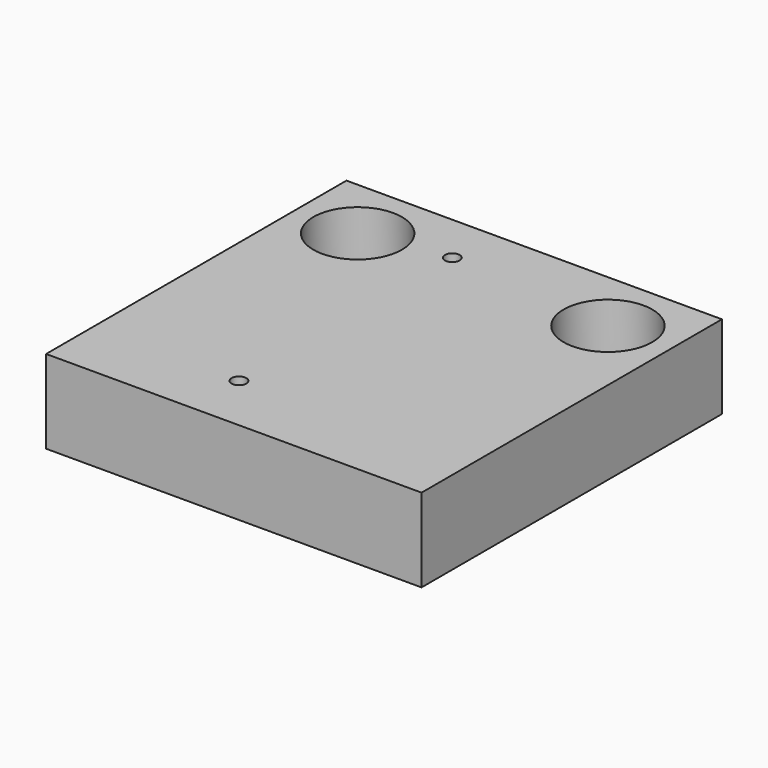
from build123d import *

# Parameters (mm, degrees)
F0_W     = 57.15
F0_H     = 57.15
F1_DEPTH = 12.7
F2_R     = 4.2164
F3_DEPTH = 12.701
F4_R     = 6.7437
F5_DEPTH = 7.9502
F7_D     = 2.2606


with BuildPart() as f1:
    # F0 (on Top) → F1 (new body)
    with BuildSketch(Plane.XY):
        with Locations((28.575, -28.575)):
            Rectangle(F0_W, F0_H)
    extrude(amount=F1_DEPTH)

    # F2 (on face) → F3 (cut, through all)
    with BuildSketch(Plane.XY.offset(12.7)):
        with Locations((9.525, -9.779)):
            Circle(F2_R)
        with Locations((47.625, -9.779)):
            Circle(F2_R)
    extrude(amount=-F3_DEPTH, mode=Mode.SUBTRACT)

    # F4 (on face) → F5 (cut)
    with BuildSketch(Plane.XY.offset(12.7)):
        with Locations((9.525, -9.779)):
            Circle(F4_R)
        with Locations((47.625, -9.779)):
            Circle(F4_R)
    extrude(amount=-F5_DEPTH, mode=Mode.SUBTRACT)

    # F7 (through all)
    with Locations(Plane.XY.offset(12.7)):
        with Locations((22.225, -7.6454), (22.225, -48.2346)):
            Hole(F7_D / 2)


solid = f1.part
